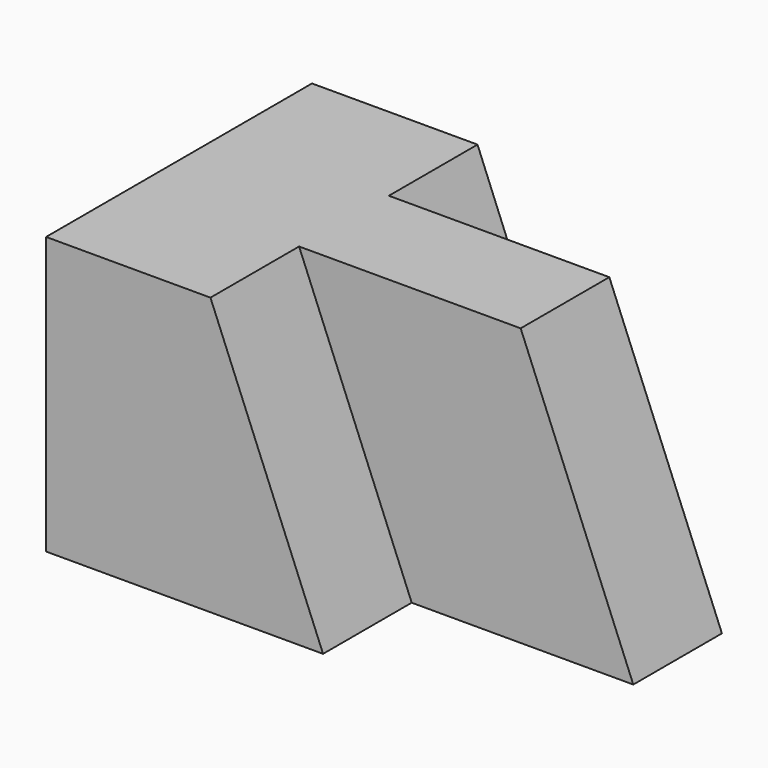
from build123d import *

# Parameters (mm, degrees)
F0_W     = 57.15
F0_H     = 31.75
F1_DEPTH = 38.1
F2_W     = 25.4
F2_H     = 31.75
F3_DEPTH = 12.7
F4_DEPTH = 12.7
F6_DEPTH = 12.7
F8_DEPTH = 12.7


with BuildPart() as f1:
    # F0 (on Front) → F1 (new body)
    with BuildSketch(Plane.XZ):
        with Locations((28.575, 15.875)):
            Rectangle(F0_W, F0_H)
    extrude(amount=F1_DEPTH)

    # F2 (on face) → F3 (cut)
    with BuildSketch(Plane.XZ.offset(38.1)):
        with Locations((44.45, 15.875)):
            Rectangle(F2_W, F2_H)
    extrude(amount=-F3_DEPTH, mode=Mode.SUBTRACT)

    # F2 (on face) → F4 (cut)
    with BuildSketch(Plane.XZ.offset(38.1)):
        Polygon((18.840961, 31.75), (31.75, 0), (31.75, 31.75), align=None)
    extrude(amount=-F4_DEPTH, mode=Mode.SUBTRACT)

    # F5 (on face) → F6 (cut)
    with BuildSketch(Plane.XZ.offset(25.4)):
        Polygon((44.240961, 31.75), (57.15, 0), (57.15, 31.75), align=None)
    extrude(amount=-F6_DEPTH, mode=Mode.SUBTRACT)

    # F7 (on face) → F8 (cut)
    with BuildSketch(Plane(origin=(0, 0, 0), x_dir=(-1, 0, 0), z_dir=(0, 1, 0))):
        Polygon((-57.15, 0), (-31.75, 0), (-18.975182, 31.75), (-57.15, 31.75), align=None)
    extrude(amount=-F8_DEPTH, mode=Mode.SUBTRACT)


solid = f1.part
